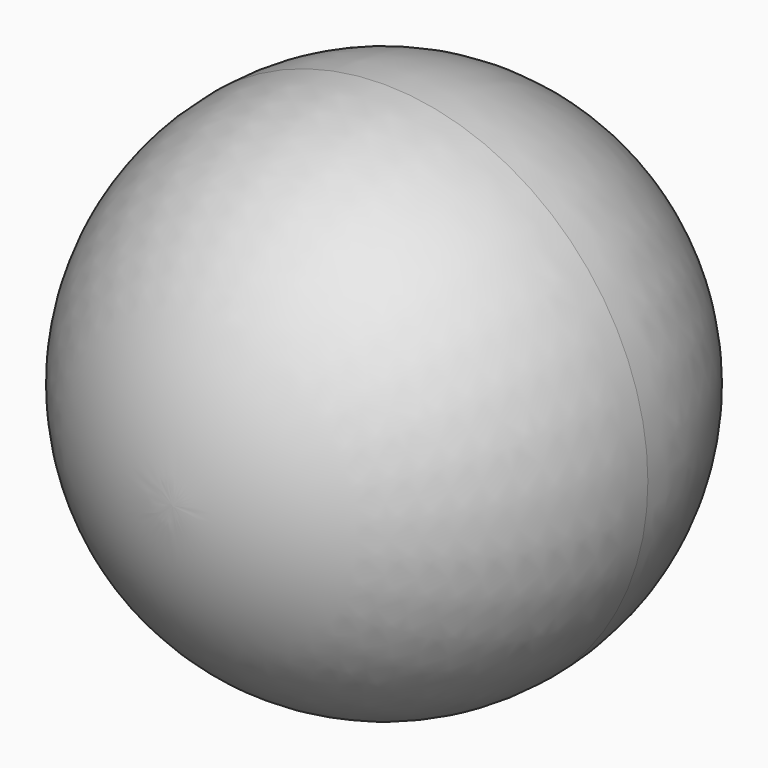
from build123d import *

# Parameters (mm, degrees)
F3_DEPTH = 50.8


with BuildPart() as f1:
    # F0 (on Top) → F1 (revolve)
    with BuildSketch(Plane.XY):
        with BuildLine():
            Line((0, 38.1), (0, 0))
            Line((0, 0), (38.1, 0))
            ThreePointArc((38.1, 0), (26.940768, 26.940768), (0, 38.1))
        make_face()
    revolve(axis=Axis((0, 19.05, 0), (0, 1, 0)))

    # F2 (on face) → F3 (cut)
    with BuildSketch(Plane.XZ):
        Polygon((0, 25.153092), (0, 16.718826), (3.587308, 14.112495), (2.217078, 18.329628), (5.804386, 20.935959), (1.37023, 20.935959), align=None)
        Polygon((-3.587308, 14.112495), (0, 16.718826), (0, 25.153092), (-1.37023, 20.935959), (-5.804386, 20.935959), (-2.217078, 18.329628), align=None)
        Polygon((-18.816187, -9.281326), (-21.783217, -12.576546), (-17.445958, -11.654633), (-15.22888, -15.494725), (-14.765384, -11.08486), (-10.428125, -10.162947), (-14.478928, -8.359413), (-14.015433, -3.949548), (-16.982462, -7.244768), (-21.033265, -5.441234), align=None)
        Polygon((17.445958, -11.654633), (21.783217, -12.576546), (18.816187, -9.281326), (21.033265, -5.441234), (16.982462, -7.244768), (14.015433, -3.949548), (14.478928, -8.359413), (10.428125, -10.162947), (14.765384, -11.08486), (15.22888, -15.494725), align=None)
    extrude(amount=-F3_DEPTH, mode=Mode.SUBTRACT)

    # F4 (on Top) → F5 (revolve)
    with BuildSketch(Plane.XY):
        with BuildLine():
            Line((38.1, 0), (0, 0))
            Line((0, 0), (0, -38.1))
            ThreePointArc((0, -38.1), (26.940768, -26.940768), (38.1, 0))
        make_face()
    revolve(axis=Axis((0, -19.05, 0), (0, -1, 0)))


solid = f1.part
